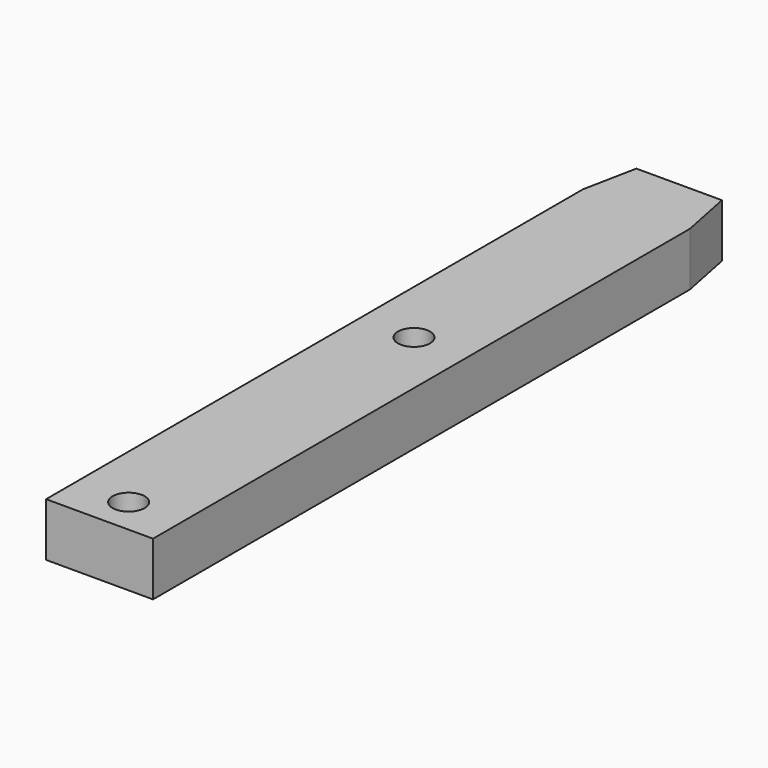
from build123d import *

# Parameters (mm, degrees)
F0_W       = 10
F0_H       = 67.7401442081
F0_R       = 1.5
F1_DEPTH   = 2.5
F2_SIZE2   = 1
F2_SIZE    = 5
F2_2_SIZE2 = 1
F2_2_SIZE  = 5


with BuildPart() as f1:
    # F0 (on Top) → F1 (new body, symmetric)
    with BuildSketch(Plane.XY):
        with Locations((-39.6120686829, 11.5640377626)):
            Rectangle(F0_W, F0_H)
        with Locations((-39.6120686829, -18.9060343415)):
            Circle(F0_R, mode=Mode.SUBTRACT)
        with Locations((-39.6120686829, 14.4433356585)):
            Circle(F0_R, mode=Mode.SUBTRACT)
    extrude(amount=F1_DEPTH, both=True)

    # F2
    f2_edges = [f1.edges().sort_by_distance(p)[0] for p in [
        (-44.612069, 45.43411, 0),
    ]]
    f2_side = f1.faces().sort_by_distance((-44.612069, 11.564038, 0))[0]
    chamfer(f2_edges, length=F2_SIZE, length2=F2_SIZE2, reference=f2_side)

    # F2#2
    f2_2_edges = [f1.edges().sort_by_distance(p)[0] for p in [
        (-34.612069, 45.43411, 0),
    ]]
    f2_2_side = f1.faces().sort_by_distance((-34.612069, 11.564038, 0))[0]
    chamfer(f2_2_edges, length=F2_2_SIZE, length2=F2_2_SIZE2, reference=f2_2_side)


solid = f1.part
